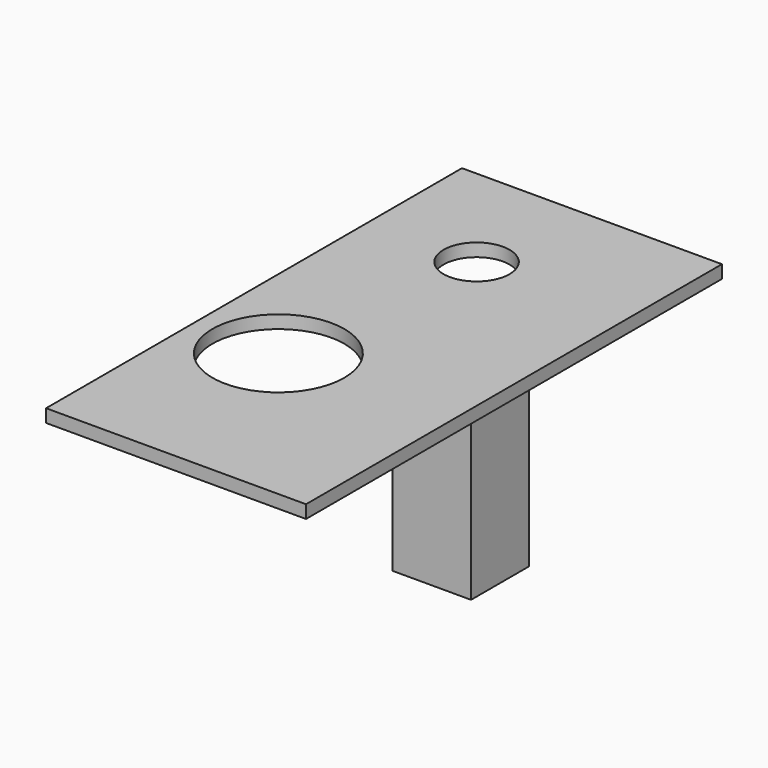
from build123d import *

# Parameters (mm, degrees)
F0_W     = 100
F0_H     = 200
F0_R     = 25.4
F0_R_2   = 12.7
F1_DEPTH = 5
F2_W     = 30.14613
F2_H     = 27.849287
F3_DEPTH = 81.788


with BuildPart() as f1:
    # F0 (on Top) → F1 (new body)
    with BuildSketch(Plane.XY):
        with Locations((50, 100)):
            Rectangle(F0_W, F0_H)
        with Locations((32.202862, 71.444824)):
            Circle(F0_R, mode=Mode.SUBTRACT)
        with Locations((41.541532, 155.08683)):
            Circle(F0_R_2, mode=Mode.SUBTRACT)
    extrude(amount=F1_DEPTH)

    # F2 (on face) → F3 (join)
    with BuildSketch(Plane(origin=(0, 0, 0), x_dir=(1, 0, 0), z_dir=(0, 0, -1))):
        with Locations((58.350835, -126.499742)):
            Rectangle(F2_W, F2_H)
    extrude(amount=F3_DEPTH)


solid = f1.part
